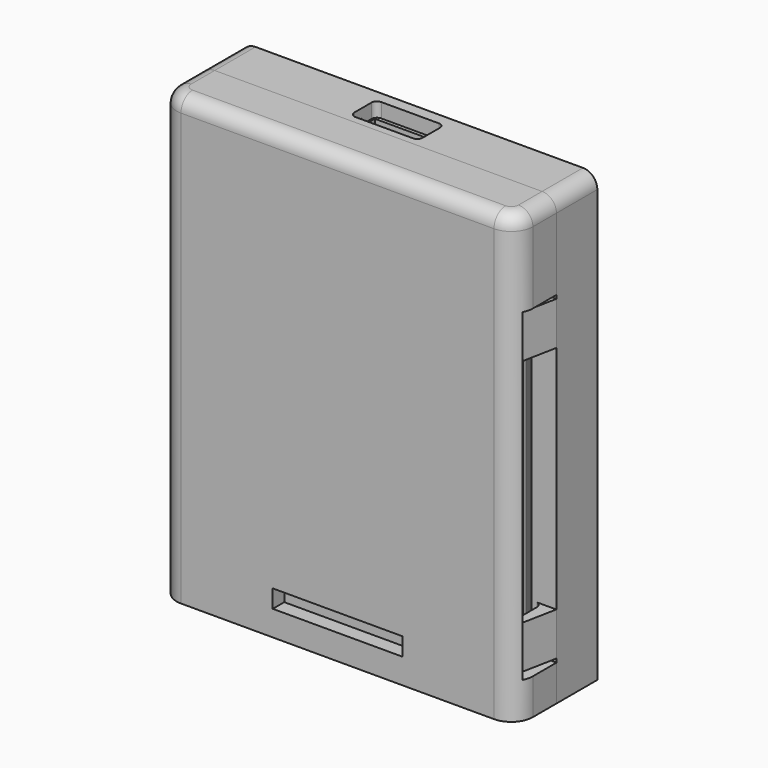
from build123d import *

# Parameters (mm, degrees)
SKETCH_W        = 49.5
SKETCH_H        = 7.1
PAD_DEPTH       = 62
FILLET001_R     = 2
FILLET002_R     = 2
SKETCH003_W     = 41.5
SKETCH003_H     = 54.5
POCKET001_DEPTH = 1
SKETCH004_W     = 9.6
SKETCH004_H     = 1.2
POCKET002_DEPTH = 4.8
PAD002_DEPTH    = 57
SKETCH007_W     = 7.5
SKETCH007_H     = 5
POCKET003_DEPTH = 3.75
POCKET007_DEPTH = 60
SKETCH012_W     = 17.75
SKETCH012_H     = 27
POCKET008_DEPTH = 3
SKETCH013_W     = 9
SKETCH013_H     = 7.5
POCKET009_DEPTH = 5
POCKET010_DEPTH = 2
SKETCH015_W     = 31.25
SKETCH015_H     = 2.5
PAD003_DEPTH    = 2.5
PAD001_DEPTH    = 62
FILLET_R        = 2
SKETCH002_W     = 41.5
SKETCH002_H     = 54.5
POCKET_DEPTH    = 5.5
SKETCH008_W     = 9.6
SKETCH008_H     = 1.2
POCKET004_DEPTH = 4.8
SKETCH009_W     = 7.5
SKETCH009_H     = 5
POCKET005_DEPTH = 3.75
POCKET006_DEPTH = 45
SKETCH016_W     = 18
SKETCH016_H     = 2.5
POCKET011_DEPTH = 2
POCKET012_DEPTH = 18


with BuildPart() as bodysquared:
    # Sketch → Pad (new body)
    with BuildSketch(Plane.XY):
        with Locations((0, 3.55)):
            Rectangle(SKETCH_W, SKETCH_H)
    extrude(amount=PAD_DEPTH)

    # Fillet001
    fillet001_edges = [bodysquared.edges().sort_by_distance(p)[0] for p in [
        (24.75, 3.55, 62),
    ]]
    fillet(fillet001_edges, radius=FILLET001_R)

    # Fillet002
    fillet002_edges = [bodysquared.edges().sort_by_distance(p)[0] for p in [
        (-24.75, 3.55, 62),
    ]]
    fillet(fillet002_edges, radius=FILLET002_R)

    # Sketch003 (on DatumPlane) → Pocket001 (cut)
    with BuildSketch(Plane.XZ):
        with Locations((0, 33.5)):
            Rectangle(SKETCH003_W, SKETCH003_H)
    extrude(amount=-POCKET001_DEPTH, mode=Mode.SUBTRACT)

    # Sketch004 (on DatumPlane) → Pocket002 (cut)
    with BuildSketch(Plane.XZ):
        with Locations((-6.3, 4.4)):
            Rectangle(SKETCH004_W, SKETCH004_H)
        with Locations((6.3, 4.4)):
            Rectangle(SKETCH004_W, SKETCH004_H)
    extrude(amount=-POCKET002_DEPTH, mode=Mode.SUBTRACT)

    # Sketch005 (on DatumPlane) → Pad002 (join)
    with BuildSketch(Plane(origin=(0, 0, 0), x_dir=(1, 0, 0), z_dir=(0, 0, -1))):
        with BuildLine():
            Line((-24.75, -0.1), (-23.75, 5))
            Line((-23.75, 5), (-22.75, 5))
            Line((-22.75, 5), (-22.25, 4.5))
            Line((-22.25, 4.5), (-22.25, 4))
            Line((-22.25, 4), (-22.75, 3.5))
            Line((-22.75, 3.5), (-22.75, 0.95))
            ThreePointArc((-22.75, 0.95), (-22.457107, 0.242893), (-21.75, -0.05))
            Line((-20.75, -0.05), (-21.75, -0.05))
            Line((-20.75, -1.1), (-20.75, -0.05))
            Line((-24.75, -1.1), (-20.75, -1.1))
            Line((-24.75, -0.1), (-24.75, -1.1))
        make_face()
        with BuildLine():
            Line((24.75, -0.1), (23.75, 5))
            Line((23.75, 5), (22.75, 5))
            Line((22.75, 5), (22.25, 4.5))
            Line((22.25, 4.5), (22.25, 4))
            Line((22.25, 4), (22.75, 3.5))
            Line((22.75, 3.5), (22.75, 0.95))
            ThreePointArc((21.75, -0.05), (22.457107, 0.242893), (22.75, 0.95))
            Line((20.75, -0.05), (21.75, -0.05))
            Line((20.75, -1.1), (20.75, -0.05))
            Line((24.75, -1.1), (20.75, -1.1))
            Line((24.75, -0.1), (24.75, -1.1))
        make_face()
    extrude(amount=-PAD002_DEPTH)

    # Sketch007 (on DatumPlane) → Pocket003 (cut)
    with BuildSketch(Plane.XZ):
        with Locations((-6.25, 2)):
            Rectangle(SKETCH007_W, SKETCH007_H)
        with Locations((6.25, 2)):
            Rectangle(SKETCH007_W, SKETCH007_H)
        with BuildLine():
            Line((-12.1, 11.5), (-20.1, 11.5))
            ThreePointArc((-20.1, 11.5), (-20.807107, 11.207107), (-21.1, 10.5))
            Line((-21.1, 10.5), (-21.1, 3))
            ThreePointArc((-21.1, 3), (-20.807107, 2.292893), (-20.1, 2))
            Line((-20.1, 2), (-12.1, 2))
            ThreePointArc((-12.1, 2), (-11.392893, 2.292893), (-11.1, 3))
            Line((-11.1, 3), (-11.1, 10.5))
            ThreePointArc((-11.1, 10.5), (-11.392893, 11.207107), (-12.1, 11.5))
        make_face()
        with BuildLine():
            Line((12.1, 11.5), (20.1, 11.5))
            ThreePointArc((21.1, 10.5), (20.807107, 11.207107), (20.1, 11.5))
            Line((21.1, 10.5), (21.1, 3))
            ThreePointArc((20.1, 2), (20.807107, 2.292893), (21.1, 3))
            Line((20.1, 2), (12.1, 2))
            ThreePointArc((11.1, 3), (11.392893, 2.292893), (12.1, 2))
            Line((11.1, 3), (11.1, 10.5))
            ThreePointArc((12.1, 11.5), (11.392893, 11.207107), (11.1, 10.5))
        make_face()
    extrude(amount=-POCKET003_DEPTH, mode=Mode.SUBTRACT)

    # Sketch011 (on DatumPlane) → Pocket007 (cut)
    with BuildSketch(Plane(origin=(-24.75, 0, 0), x_dir=(0, -1, 0), z_dir=(-1, 0, 0))):
        Polygon((0, -1), (0, 5.5), (6, 5.5), (6, 11.5), (0, 11.5), (0, 43.5), (6, 43.5), (6, 49.5), (0, 49.5), (0, 65), (7, 65), (7, -1), align=None)
    extrude(amount=-POCKET007_DEPTH, mode=Mode.SUBTRACT)

    # Sketch012 (on DatumPlane) → Pocket008 (cut)
    with BuildSketch(Plane.XZ):
        with Locations((0, 47.25)):
            Rectangle(SKETCH012_W, SKETCH012_H)
    extrude(amount=-POCKET008_DEPTH, mode=Mode.SUBTRACT)

    # Sketch013 (on DatumPlane) → Pocket009 (cut)
    with BuildSketch(Plane.XZ):
        with Locations((0, 57.25)):
            Rectangle(SKETCH013_W, SKETCH013_H)
        with BuildLine():
            Line((-6.875, 51.5), (6.875, 51.5))
            ThreePointArc((8.875, 49.5), (8.289214, 50.914214), (6.875, 51.5))
            Line((8.875, 49.5), (8.875, 39))
            ThreePointArc((8.875, 39), (9.460786, 37.585786), (10.875, 37))
            Line((10.875, 37), (14.1, 37))
            ThreePointArc((16.1, 35), (15.514214, 36.414214), (14.1, 37))
            Line((16.1, 35), (16.1, 11))
            ThreePointArc((14.1, 9), (15.514214, 9.585786), (16.1, 11))
            Line((14.1, 9), (13.1, 9))
            ThreePointArc((11.1, 11), (11.685786, 9.585786), (13.1, 9))
            Line((11.1, 11), (11.1, 22.75))
            ThreePointArc((11.1, 22.75), (10.514214, 24.164214), (9.1, 24.75))
            Line((9.1, 24.75), (-9.1, 24.75))
            ThreePointArc((-9.1, 24.75), (-10.514214, 24.164214), (-11.1, 22.75))
            Line((-11.1, 22.75), (-11.1, 11))
            ThreePointArc((-13.1, 9), (-11.685786, 9.585786), (-11.1, 11))
            Line((-13.1, 9), (-14.1, 9))
            ThreePointArc((-16.1, 11), (-15.514214, 9.585786), (-14.1, 9))
            Line((-16.1, 11), (-16.1, 35))
            ThreePointArc((-14.1, 37), (-15.514214, 36.414214), (-16.1, 35))
            Line((-14.1, 37), (-10.875, 37))
            ThreePointArc((-10.875, 37), (-9.460786, 37.585786), (-8.875, 39))
            Line((-8.875, 39), (-8.875, 49.5))
            ThreePointArc((-6.875, 51.5), (-8.289214, 50.914214), (-8.875, 49.5))
        make_face()
        with BuildLine():
            Line((-1.5, 32.75), (1.5, 32.75))
            ThreePointArc((2.5, 31.75), (2.207107, 32.457107), (1.5, 32.75))
            Line((2.5, 31.75), (2.5, 28.75))
            ThreePointArc((1.5, 27.75), (2.207107, 28.042893), (2.5, 28.75))
            Line((1.5, 27.75), (-1.5, 27.75))
            ThreePointArc((-2.5, 28.75), (-2.207107, 28.042893), (-1.5, 27.75))
            Line((-2.5, 28.75), (-2.5, 31.75))
            ThreePointArc((-1.5, 32.75), (-2.207107, 32.457107), (-2.5, 31.75))
        make_face(mode=Mode.SUBTRACT)
    extrude(amount=-POCKET009_DEPTH, mode=Mode.SUBTRACT)

    # Sketch014 (on DatumPlane) → Pocket010 (cut)
    with BuildSketch(Plane.XY.offset(62)):
        with BuildLine():
            Line((-4, 5.5), (4, 5.5))
            ThreePointArc((4.75, 4.75), (4.53033, 5.28033), (4, 5.5))
            Line((4.75, 4.75), (4.75, 1.75))
            ThreePointArc((4, 1), (4.53033, 1.21967), (4.75, 1.75))
            Line((4, 1), (-4, 1))
            ThreePointArc((-4.75, 1.75), (-4.53033, 1.21967), (-4, 1))
            Line((-4.75, 1.75), (-4.75, 4.75))
            ThreePointArc((-4, 5.5), (-4.53033, 5.28033), (-4.75, 4.75))
        make_face()
    extrude(amount=-POCKET010_DEPTH, mode=Mode.SUBTRACT)

    # Sketch015 (on DatumPlane) → Pad003 (join)
    with BuildSketch(Plane(origin=(0, 7.1, 0), x_dir=(-1, 0, 0), z_dir=(0, 1, 0))):
        with Locations((0, 36.25)):
            Rectangle(SKETCH015_W, SKETCH015_H)
    extrude(amount=PAD003_DEPTH)


with BuildPart() as bodyrounded:
    # Sketch001 → Pad001 (new body)
    with BuildSketch(Plane.XY):
        with BuildLine():
            Line((-24.75, 0), (24.75, 0))
            Line((24.75, 0), (24.75, -4.1))
            ThreePointArc((21.75, -7.1), (23.87132, -6.22132), (24.75, -4.1))
            Line((21.75, -7.1), (-21.75, -7.1))
            ThreePointArc((-24.75, -4.1), (-23.87132, -6.22132), (-21.75, -7.1))
            Line((-24.75, -4.1), (-24.75, 0))
        make_face()
    extrude(amount=PAD001_DEPTH)

    # Fillet
    fillet_edges = [bodyrounded.edges().sort_by_distance(p)[0] for p in [
        (0, -7.1, 62),
    ]]
    fillet(fillet_edges, radius=FILLET_R)

    # Sketch002 (on DatumPlane) → Pocket (cut)
    with BuildSketch(Plane(origin=(0, 0, 0), x_dir=(-1, 0, 0), z_dir=(0, 1, 0))):
        with Locations((0, 33.5)):
            Rectangle(SKETCH002_W, SKETCH002_H)
    extrude(amount=-POCKET_DEPTH, mode=Mode.SUBTRACT)

    # Sketch008 (on DatumPlane) → Pocket004 (cut)
    with BuildSketch(Plane(origin=(0, 0, 0), x_dir=(-1, 0, 0), z_dir=(0, 1, 0))):
        with Locations((-6.3, 4.4)):
            Rectangle(SKETCH008_W, SKETCH008_H)
        with Locations((6.3, 4.4)):
            Rectangle(SKETCH008_W, SKETCH008_H)
    extrude(amount=-POCKET004_DEPTH, mode=Mode.SUBTRACT)

    # Sketch009 (on DatumPlane) → Pocket005 (cut)
    with BuildSketch(Plane(origin=(0, 0, 0), x_dir=(-1, 0, 0), z_dir=(0, 1, 0))):
        with Locations((-6.25, 2)):
            Rectangle(SKETCH009_W, SKETCH009_H)
        with Locations((6.25, 2)):
            Rectangle(SKETCH009_W, SKETCH009_H)
        with BuildLine():
            Line((-19.4, 11.5), (-12.1, 11.5))
            ThreePointArc((-11.1, 10.5), (-11.392893, 11.207107), (-12.1, 11.5))
            Line((-11.1, 10.5), (-11.1, 3))
            ThreePointArc((-12.1, 2), (-11.392893, 2.292893), (-11.1, 3))
            Line((-12.1, 2), (-19.4, 2))
            ThreePointArc((-20.4, 3), (-20.107107, 2.292893), (-19.4, 2))
            Line((-20.4, 3), (-20.4, 10.5))
            ThreePointArc((-19.4, 11.5), (-20.107107, 11.207107), (-20.4, 10.5))
        make_face()
        with BuildLine():
            Line((12.1, 11.5), (19.4, 11.5))
            ThreePointArc((20.4, 10.5), (20.107107, 11.207107), (19.4, 11.5))
            Line((20.4, 10.5), (20.4, 3))
            ThreePointArc((19.4, 2), (20.107107, 2.292893), (20.4, 3))
            Line((19.4, 2), (12.1, 2))
            ThreePointArc((11.1, 3), (11.392893, 2.292893), (12.1, 2))
            Line((11.1, 3), (11.1, 10.5))
            ThreePointArc((12.1, 11.5), (11.392893, 11.207107), (11.1, 10.5))
        make_face()
    extrude(amount=-POCKET005_DEPTH, mode=Mode.SUBTRACT)

    # Sketch010 (on DatumPlane) → Pocket006 (cut)
    with BuildSketch(Plane(origin=(0, 0, 5), x_dir=(1, 0, 0), z_dir=(0, 0, -1))):
        Polygon((-24.85, -0.1), (-24.85, 5.5), (-24.75, 5.5), (-22.5, 5.5), (-21.75, 4.875), (-21.75, 3.625), (-22.5, 3), (-22.5, 2.5), (-21.25, -0.1), align=None)
        Polygon((24.85, -0.1), (24.85, 5.5), (24.75, 5.5), (22.5, 5.5), (21.75, 4.875), (21.75, 3.625), (22.5, 3), (22.5, 2.5), (21.25, -0.1), align=None)
    extrude(amount=-POCKET006_DEPTH, mode=Mode.SUBTRACT)

    # Sketch016 (on DatumPlane) → Pocket011 (cut)
    with BuildSketch(Plane.XZ.offset(7.1)):
        with Locations((0, 4.75)):
            Rectangle(SKETCH016_W, SKETCH016_H)
    extrude(amount=-POCKET011_DEPTH, mode=Mode.SUBTRACT)

    # Sketch017 (on DatumPlane) → Pocket012 (cut)
    with BuildSketch(Plane.XY.offset(3.5)):
        Polygon((-5.55, -0.1), (-7.3, 2.9), (-7.3, -0.1), align=None)
    extrude(amount=POCKET012_DEPTH, mode=Mode.SUBTRACT)


solid = Compound([bodysquared.part, bodyrounded.part])
